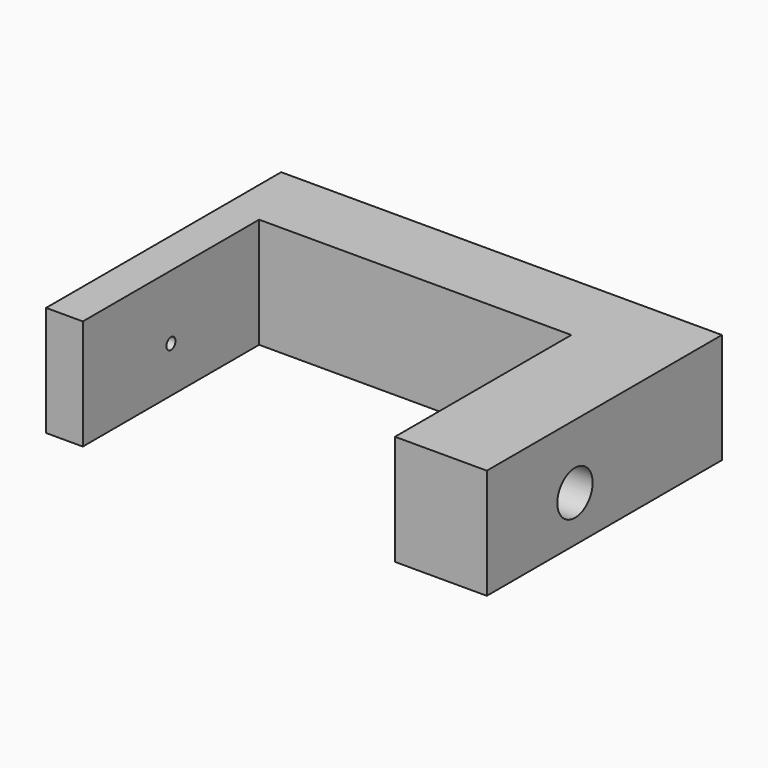
from build123d import *

# Parameters (mm, degrees)
F0_W      = 120
F0_H      = 80
F1_DEPTH  = 30
F3_W      = 85
F3_H      = 60
F4_DEPTH  = 30
F5_DEPTH  = 4
F6_R      = 3.8
F7_DEPTH  = 2
F8_R      = 1.55
F9_DEPTH  = 7
F10_R     = 6
F12_DEPTH = 25.000046
F11_R     = 0.5
F13_DEPTH = 1


with BuildPart() as f1:
    # F0 (on Top) → F1 (new body)
    with BuildSketch(Plane.XY):
        Rectangle(F0_W, F0_H)
    extrude(amount=F1_DEPTH)

    # F3 (on Top) → F4 (cut, through all)
    with BuildSketch(Plane.XY):
        with Locations((-7.500046, -10)):
            Rectangle(F3_W, F3_H)
    extrude(amount=F4_DEPTH, mode=Mode.SUBTRACT)

    # F2 (on face) → F5 (cut)
    with BuildSketch(Plane(origin=(-60, 0, 0), x_dir=(0, -1, 0), z_dir=(-1, 0, 0))):
        Polygon((10, 17.12), (5.998963, 14.81), (5.998963, 10.19), (10, 7.88), (14.001037, 10.19), (14.001037, 14.81), align=None)
    extrude(amount=-F5_DEPTH, mode=Mode.SUBTRACT)

    # F6 (on face) → F7 (cut)
    with BuildSketch(Plane(origin=(-56, 0, 0), x_dir=(0, -1, 0), z_dir=(-1, 0, 0))):
        with Locations((10, 12.5)):
            Circle(F6_R)
    extrude(amount=-F7_DEPTH, mode=Mode.SUBTRACT)

    # F8 (on face) → F9 (cut)
    with BuildSketch(Plane(origin=(-54, 0, 0), x_dir=(0, -1, 0), z_dir=(-1, 0, 0))):
        with Locations((10, 12.5)):
            Circle(F8_R)
    extrude(amount=-F9_DEPTH, mode=Mode.SUBTRACT)

    # F10 (on face) → F12 (cut, through all)
    with BuildSketch(Plane.YZ.offset(60)):
        with Locations((-10, 12.5)):
            Circle(F10_R)
    extrude(amount=-F12_DEPTH, mode=Mode.SUBTRACT)

    # F11 (on face) → F13 (cut)
    with BuildSketch(Plane(origin=(0, 40, 0), x_dir=(-1, 0, 0), z_dir=(0, 1, 0))):
        with Locations((20, 6)):
            Circle(F11_R)
        with Locations((-5, 6)):
            Circle(F11_R)
    extrude(amount=-F13_DEPTH, mode=Mode.SUBTRACT)


solid = f1.part
